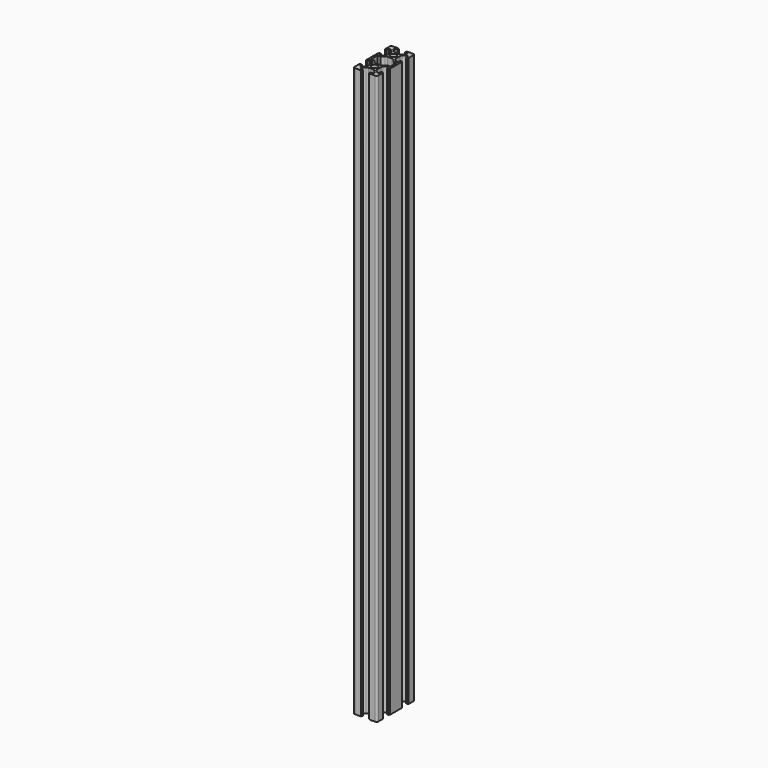
from build123d import *

# Parameters (mm, degrees)
F0_R     = 2.5
F1_DEPTH = 480


with BuildPart() as f1:
    # F0 (on Top) → F1 (new body)
    with BuildSketch(Plane.XY):
        with BuildLine():
            Line((-154.894894, -55.535871), (-151.894894, -55.535871))
            ThreePointArc((-151.894894, -55.535871), (-150.834234, -55.096531), (-150.394894, -54.035871))
            Line((-150.394894, -54.035871), (-150.394894, -51.035871))
            Line((-150.394894, -51.035871), (-150.394894, -49.135871))
            Line((-150.394894, -49.135871), (-150.694894, -49.135871))
            ThreePointArc((-150.694894, -49.135871), (-150.836316, -49.077292), (-150.894894, -48.935871))
            Line((-150.894894, -48.935871), (-150.894894, -48.635871))
            Line((-150.894894, -48.635871), (-152.194894, -48.635871))
            Line((-152.194894, -48.635871), (-152.194894, -51.035871))
            Line((-152.194894, -51.035871), (-153.834234, -51.035871))
            Line((-153.834234, -51.035871), (-155.909108, -48.960997))
            ThreePointArc((-155.909108, -48.960997), (-156.342654, -48.31215), (-156.494894, -47.546783))
            Line((-156.494894, -47.546783), (-156.494894, -43.524958))
            ThreePointArc((-156.494894, -43.524958), (-156.342654, -42.759591), (-155.909108, -42.110744))
            Line((-155.909108, -42.110744), (-153.834234, -40.035871))
            Line((-153.834234, -40.035871), (-152.194894, -40.035871))
            Line((-152.194894, -40.035871), (-152.194894, -42.435871))
            Line((-152.194894, -42.435871), (-150.894894, -42.435871))
            Line((-150.894894, -42.435871), (-150.894894, -42.135871))
            ThreePointArc((-150.894894, -42.135871), (-150.836316, -41.994449), (-150.694894, -41.935871))
            Line((-150.694894, -41.935871), (-150.394894, -41.935871))
            Line((-150.394894, -41.935871), (-150.394894, -40.035871))
            Line((-150.394894, -40.035871), (-150.394894, -37.035871))
            Line((-150.394894, -37.035871), (-150.394894, -35.535871))
            Line((-150.394894, -35.535871), (-150.394894, -34.035871))
            Line((-150.394894, -34.035871), (-150.394894, -31.035871))
            Line((-150.394894, -31.035871), (-150.394894, -29.135871))
            Line((-150.394894, -29.135871), (-150.694894, -29.135871))
            ThreePointArc((-150.694894, -29.135871), (-150.836316, -29.077292), (-150.894894, -28.935871))
            Line((-150.894894, -28.935871), (-150.894894, -28.635871))
            Line((-150.894894, -28.635871), (-152.194894, -28.635871))
            Line((-152.194894, -28.635871), (-152.194894, -31.035871))
            Line((-152.194894, -31.035871), (-153.834234, -31.035871))
            Line((-153.834234, -31.035871), (-155.909108, -28.960997))
            ThreePointArc((-155.909108, -28.960997), (-156.342654, -28.31215), (-156.494894, -27.546783))
            Line((-156.494894, -27.546783), (-156.494894, -23.524958))
            ThreePointArc((-156.494894, -23.524958), (-156.342654, -22.759591), (-155.909108, -22.110744))
            Line((-155.909108, -22.110744), (-153.834234, -20.035871))
            Line((-153.834234, -20.035871), (-152.194894, -20.035871))
            Line((-152.194894, -20.035871), (-152.194894, -22.435871))
            Line((-152.194894, -22.435871), (-150.894894, -22.435871))
            Line((-150.894894, -22.435871), (-150.894894, -22.135871))
            ThreePointArc((-150.894894, -22.135871), (-150.836316, -21.994449), (-150.694894, -21.935871))
            Line((-150.694894, -21.935871), (-150.394894, -21.935871))
            Line((-150.394894, -21.935871), (-150.394894, -20.035871))
            Line((-150.394894, -20.035871), (-150.394894, -17.035871))
            ThreePointArc((-150.394894, -17.035871), (-150.834234, -15.975211), (-151.894894, -15.535871))
            Line((-151.894894, -15.535871), (-154.894894, -15.535871))
            Line((-154.894894, -15.535871), (-156.294894, -15.535871))
            Line((-156.294894, -15.535871), (-156.794894, -15.535871))
            Line((-156.794894, -15.535871), (-156.794894, -15.835871))
            ThreePointArc((-156.794894, -15.835871), (-156.853473, -15.977292), (-156.994894, -16.035871))
            Line((-156.994894, -16.035871), (-157.294894, -16.035871))
            Line((-157.294894, -16.035871), (-157.294894, -17.335871))
            Line((-157.294894, -17.335871), (-154.894894, -17.335871))
            Line((-154.894894, -17.335871), (-154.894894, -18.975211))
            Line((-154.894894, -18.975211), (-156.969768, -21.050084))
            ThreePointArc((-156.969768, -21.050084), (-157.618615, -21.48363), (-158.383982, -21.635871))
            Line((-158.383982, -21.635871), (-162.405807, -21.635871))
            ThreePointArc((-162.405807, -21.635871), (-163.171174, -21.48363), (-163.820021, -21.050084))
            Line((-163.820021, -21.050084), (-165.894894, -18.975211))
            Line((-165.894894, -18.975211), (-165.894894, -17.335871))
            Line((-165.894894, -17.335871), (-163.494894, -17.335871))
            Line((-163.494894, -17.335871), (-163.494894, -16.035871))
            Line((-163.494894, -16.035871), (-163.794894, -16.035871))
            ThreePointArc((-163.794894, -16.035871), (-163.936316, -15.977292), (-163.994894, -15.835871))
            Line((-163.994894, -15.835871), (-163.994894, -15.535871))
            Line((-163.994894, -15.535871), (-164.494894, -15.535871))
            Line((-164.494894, -15.535871), (-165.894894, -15.535871))
            Line((-165.894894, -15.535871), (-168.894894, -15.535871))
            ThreePointArc((-168.894894, -15.535871), (-169.955555, -15.975211), (-170.394894, -17.035871))
            Line((-170.394894, -17.035871), (-170.394894, -20.035871))
            Line((-170.394894, -20.035871), (-170.394894, -21.935871))
            Line((-170.394894, -21.935871), (-170.094894, -21.935871))
            ThreePointArc((-170.094894, -21.935871), (-169.953473, -21.994449), (-169.894894, -22.135871))
            Line((-169.894894, -22.135871), (-169.894894, -22.435871))
            Line((-169.894894, -22.435871), (-168.594894, -22.435871))
            Line((-168.594894, -22.435871), (-168.594894, -20.035871))
            Line((-168.594894, -20.035871), (-166.955555, -20.035871))
            Line((-166.955555, -20.035871), (-164.880681, -22.110744))
            ThreePointArc((-164.880681, -22.110744), (-164.447135, -22.759591), (-164.294894, -23.524958))
            Line((-164.294894, -23.524958), (-164.294894, -27.546783))
            ThreePointArc((-164.294894, -27.546783), (-164.447135, -28.31215), (-164.880681, -28.960997))
            Line((-164.880681, -28.960997), (-166.955555, -31.035871))
            Line((-166.955555, -31.035871), (-168.594894, -31.035871))
            Line((-168.594894, -31.035871), (-168.594894, -28.635871))
            Line((-168.594894, -28.635871), (-169.894894, -28.635871))
            Line((-169.894894, -28.635871), (-169.894894, -28.935871))
            ThreePointArc((-169.894894, -28.935871), (-169.953473, -29.077292), (-170.094894, -29.135871))
            Line((-170.094894, -29.135871), (-170.394894, -29.135871))
            Line((-170.394894, -29.135871), (-170.394894, -31.035871))
            Line((-170.394894, -31.035871), (-170.394894, -34.035871))
            Line((-170.394894, -34.035871), (-170.394894, -35.535871))
            Line((-170.394894, -35.535871), (-170.394894, -37.035871))
            Line((-170.394894, -37.035871), (-170.394894, -40.035871))
            Line((-170.394894, -40.035871), (-170.394894, -41.935871))
            Line((-170.394894, -41.935871), (-170.094894, -41.935871))
            ThreePointArc((-170.094894, -41.935871), (-169.953473, -41.994449), (-169.894894, -42.135871))
            Line((-169.894894, -42.135871), (-169.894894, -42.435871))
            Line((-169.894894, -42.435871), (-168.594894, -42.435871))
            Line((-168.594894, -42.435871), (-168.594894, -40.035871))
            Line((-168.594894, -40.035871), (-166.955555, -40.035871))
            Line((-166.955555, -40.035871), (-164.880681, -42.110744))
            ThreePointArc((-164.880681, -42.110744), (-164.447135, -42.759591), (-164.294894, -43.524958))
            Line((-164.294894, -43.524958), (-164.294894, -47.546783))
            ThreePointArc((-164.294894, -47.546783), (-164.447135, -48.31215), (-164.880681, -48.960997))
            Line((-164.880681, -48.960997), (-166.955555, -51.035871))
            Line((-166.955555, -51.035871), (-168.594894, -51.035871))
            Line((-168.594894, -51.035871), (-168.594894, -48.635871))
            Line((-168.594894, -48.635871), (-169.894894, -48.635871))
            Line((-169.894894, -48.635871), (-169.894894, -48.935871))
            ThreePointArc((-169.894894, -48.935871), (-169.953473, -49.077292), (-170.094894, -49.135871))
            Line((-170.094894, -49.135871), (-170.394894, -49.135871))
            Line((-170.394894, -49.135871), (-170.394894, -51.035871))
            Line((-170.394894, -51.035871), (-170.394894, -54.035871))
            ThreePointArc((-170.394894, -54.035871), (-169.955555, -55.096531), (-168.894894, -55.535871))
            Line((-168.894894, -55.535871), (-165.894894, -55.535871))
            Line((-165.894894, -55.535871), (-164.494894, -55.535871))
            Line((-164.494894, -55.535871), (-163.994894, -55.535871))
            Line((-163.994894, -55.535871), (-163.994894, -55.235871))
            ThreePointArc((-163.994894, -55.235871), (-163.936316, -55.094449), (-163.794894, -55.035871))
            Line((-163.794894, -55.035871), (-163.494894, -55.035871))
            Line((-163.494894, -55.035871), (-163.494894, -53.735871))
            Line((-163.494894, -53.735871), (-165.894894, -53.735871))
            Line((-165.894894, -53.735871), (-165.894894, -52.096531))
            Line((-165.894894, -52.096531), (-163.820021, -50.021657))
            ThreePointArc((-163.820021, -50.021657), (-163.171174, -49.588112), (-162.405807, -49.435871))
            Line((-162.405807, -49.435871), (-158.383982, -49.435871))
            ThreePointArc((-158.383982, -49.435871), (-157.618615, -49.588112), (-156.969768, -50.021657))
            Line((-156.969768, -50.021657), (-154.894894, -52.096531))
            Line((-154.894894, -52.096531), (-154.894894, -53.735871))
            Line((-154.894894, -53.735871), (-157.294894, -53.735871))
            Line((-157.294894, -53.735871), (-157.294894, -55.035871))
            Line((-157.294894, -55.035871), (-156.994894, -55.035871))
            ThreePointArc((-156.994894, -55.035871), (-156.853473, -55.094449), (-156.794894, -55.235871))
            Line((-156.794894, -55.235871), (-156.794894, -55.535871))
            Line((-156.794894, -55.535871), (-156.294894, -55.535871))
            Line((-156.294894, -55.535871), (-154.894894, -55.535871))
        make_face()
        with Locations((-160.394894, -45.535871)):
            Circle(F0_R, mode=Mode.SUBTRACT)
        with BuildLine():
            ThreePointArc((-156.969768, -41.050084), (-157.618615, -41.48363), (-158.383982, -41.635871))
            Line((-158.383982, -41.635871), (-162.405807, -41.635871))
            ThreePointArc((-162.405807, -41.635871), (-163.171174, -41.48363), (-163.820021, -41.050084))
            Line((-163.820021, -41.050084), (-165.894894, -38.975211))
            Line((-165.894894, -38.975211), (-168.594894, -38.975211))
            Line((-168.594894, -38.975211), (-168.594894, -35.535871))
            Line((-168.594894, -35.535871), (-168.594894, -32.096531))
            Line((-168.594894, -32.096531), (-165.894894, -32.096531))
            Line((-165.894894, -32.096531), (-163.820021, -30.021657))
            ThreePointArc((-163.820021, -30.021657), (-163.171174, -29.588112), (-162.405807, -29.435871))
            Line((-162.405807, -29.435871), (-158.383982, -29.435871))
            ThreePointArc((-158.383982, -29.435871), (-157.618615, -29.588112), (-156.969768, -30.021657))
            Line((-156.969768, -30.021657), (-154.894894, -32.096531))
            Line((-154.894894, -32.096531), (-152.194894, -32.096531))
            Line((-152.194894, -32.096531), (-152.194894, -35.535871))
            Line((-152.194894, -35.535871), (-152.194894, -38.975211))
            Line((-152.194894, -38.975211), (-154.894894, -38.975211))
            Line((-154.894894, -38.975211), (-156.969768, -41.050084))
        make_face(mode=Mode.SUBTRACT)
        with Locations((-160.394894, -25.535871)):
            Circle(F0_R, mode=Mode.SUBTRACT)
    extrude(amount=F1_DEPTH)


solid = f1.part
